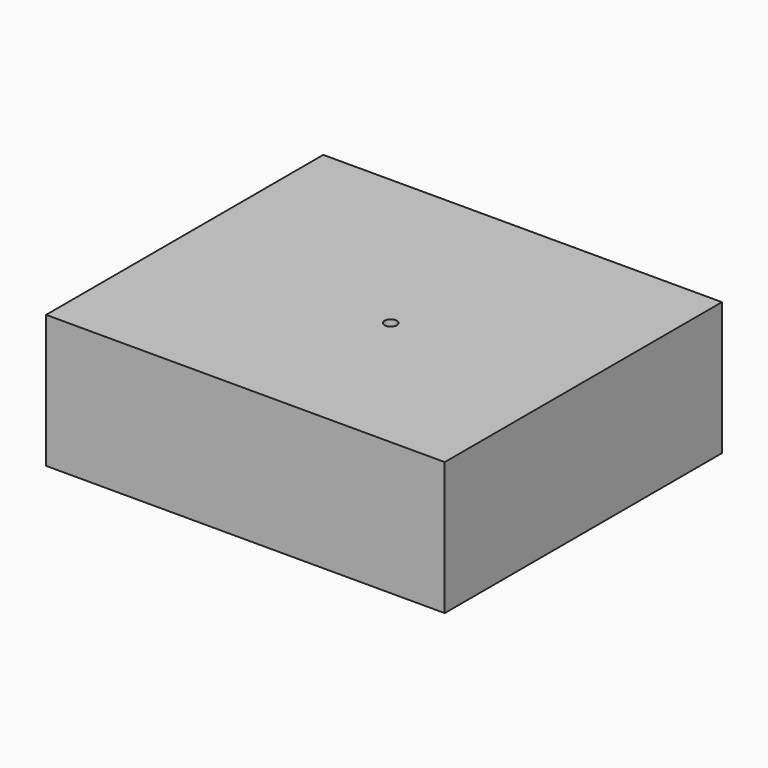
from build123d import *

# Parameters (mm, degrees)
F0_W          = 119.913816
F0_H          = 104.215179
F1_DEPTH      = 40
F2_R          = 1.858355
F3_DEPTH      = 32.004
F3_DEPTH_BACK = 58.674


with BuildPart() as f1:
    # F0 (on Top) → F1 (new body)
    with BuildSketch(Plane.XY):
        with Locations((-5.839467, 4.778015)):
            Rectangle(F0_W, F0_H)
    extrude(amount=F1_DEPTH)

    # F2 (on face) → F3 (cut, two sides)
    with BuildSketch(Plane.XY.offset(40)) as f3_sk:
        Circle(F2_R)
    extrude(amount=F3_DEPTH, mode=Mode.SUBTRACT)
    extrude(f3_sk.sketch, amount=-F3_DEPTH_BACK, mode=Mode.SUBTRACT)


solid = f1.part
